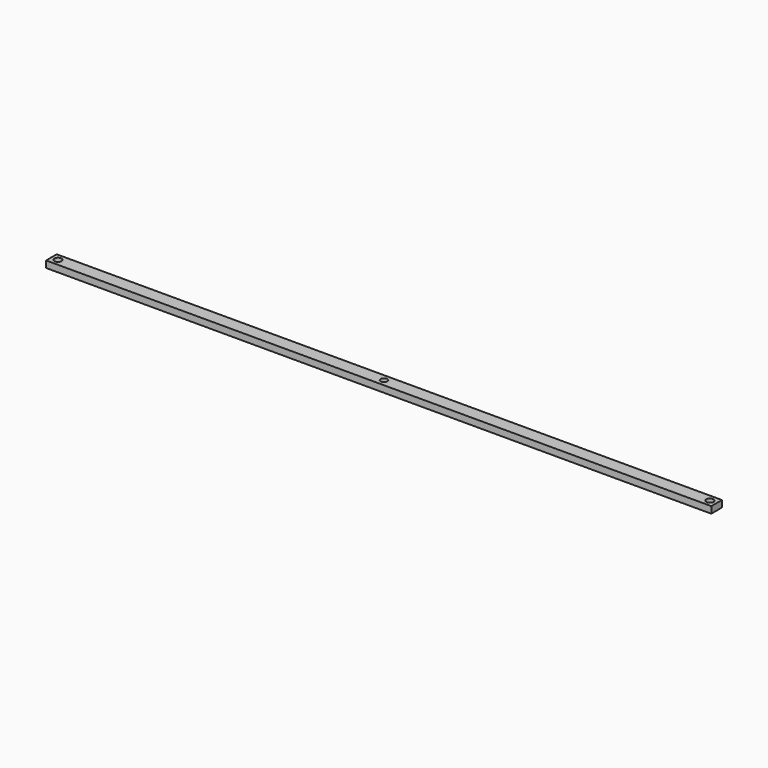
from build123d import *

# Parameters (mm, degrees)
F0_W     = 499.28
F0_H     = 10
F1_DEPTH = 5
F2_D     = 5.4
F3_D     = 5
F4_D     = 5.4


with BuildPart() as f1:
    # F0 (on Top) → F1 (new body)
    with BuildSketch(Plane.XY):
        Rectangle(F0_W, F0_H)
    extrude(amount=F1_DEPTH)

    # F2 (through all)
    with Locations(Plane(origin=(0, 0, 0), x_dir=(1, 0, 0), z_dir=(0, 0, -1))):
        with Locations((-244.64, 0)):
            Hole(F2_D / 2)

    # F3 (through all)
    with Locations(Plane(origin=(0, 0, 0), x_dir=(1, 0, 0), z_dir=(0, 0, -1))):
        with Locations((0, 0)):
            Hole(F3_D / 2)

    # F4 (through all)
    with Locations(Plane(origin=(0, 0, 0), x_dir=(1, 0, 0), z_dir=(0, 0, -1))):
        with Locations((244.64, 0)):
            Hole(F4_D / 2)


solid = f1.part
